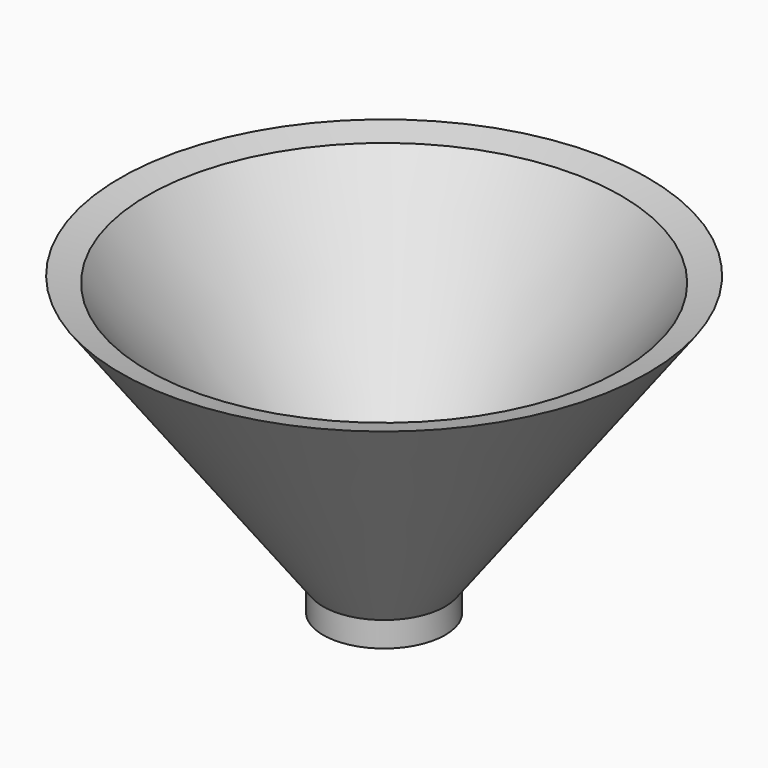
from build123d import *

# Parameters (mm, degrees)
F2_R     = 11.052767
F3_DEPTH = 25.4


with BuildPart() as f1:
    # F0 (on Front) → F1 (revolve)
    with BuildSketch(Plane.XZ):
        Polygon((14.100123, 39.021272), (8.634958, 37.709631), (-26.560698, -10.821025), (-38.802665, -10.821025), (-38.802665, -20.439714), (-26.560698, -20.439714), (-26.560698, -15.411762), align=None)
    revolve(axis=Axis((-38.802665, 0, -15.63037), (0, 0, -1)))

    # F2 (on face) → F3 (cut)
    with BuildSketch(Plane(origin=(0, 0, -20.439714), x_dir=(1, 0, 0), z_dir=(0, 0, -1))):
        with Locations((-38.802665, 0)):
            Circle(F2_R)
    extrude(amount=-F3_DEPTH, mode=Mode.SUBTRACT)


solid = f1.part
